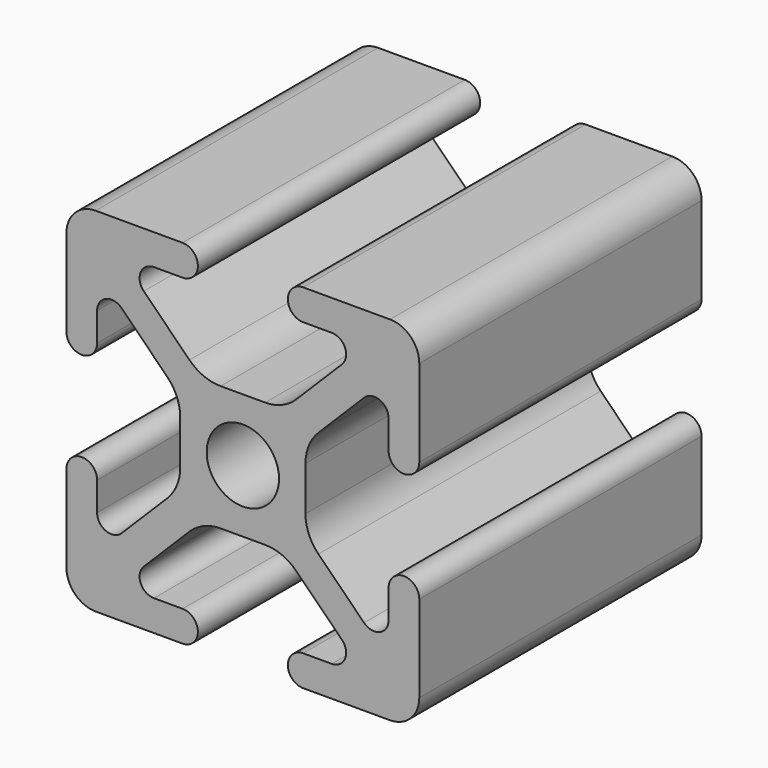
from build123d import *

# Parameters (mm, degrees)
F0_R     = 2.6035
F1_DEPTH = 25.4


with BuildPart() as f1:
    # F0 (on Front) → F1 (new body)
    with BuildSketch(Plane.XZ):
        with BuildLine():
            Line((-4.370089, 12.764578), (-10.618489, 12.764578))
            ThreePointArc((-10.618489, 12.764578), (-12.109211, 12.147101), (-12.726689, 10.656378))
            Line((-12.726689, 10.656378), (-12.726689, 4.407978))
            ThreePointArc((-12.726689, 4.407978), (-11.621789, 3.303078), (-10.516889, 4.407978))
            Line((-10.516889, 4.407978), (-10.516889, 6.464108))
            ThreePointArc((-10.516889, 6.464108), (-9.878719, 7.419196), (-8.752116, 7.195101))
            Line((-8.752116, 7.195101), (-5.465125, 3.90811))
            ThreePointArc((-5.465125, 3.90811), (-4.776871, 2.878066), (-4.535189, 1.663046))
            Line((-4.535189, 1.663046), (-4.535189, -1.533889))
            ThreePointArc((-4.535189, -1.533889), (-4.776871, -2.748909), (-5.465125, -3.778953))
            Line((-5.465125, -3.778953), (-8.752116, -7.065945))
            ThreePointArc((-8.752116, -7.065945), (-9.878719, -7.29004), (-10.516889, -6.334952))
            Line((-10.516889, -6.334952), (-10.516889, -4.278822))
            ThreePointArc((-10.516889, -4.278822), (-11.621789, -3.173922), (-12.726689, -4.278822))
            Line((-12.726689, -4.278822), (-12.726689, -10.527222))
            ThreePointArc((-12.726689, -10.527222), (-12.109211, -12.017944), (-10.618489, -12.635422))
            Line((-10.618489, -12.635422), (-4.370089, -12.635422))
            ThreePointArc((-4.370089, -12.635422), (-3.265189, -11.530522), (-4.370089, -10.425622))
            Line((-4.370089, -10.425622), (-6.426219, -10.425622))
            ThreePointArc((-6.426219, -10.425622), (-7.381307, -9.787452), (-7.157212, -8.660849))
            Line((-7.157212, -8.660849), (-3.87022, -5.373858))
            ThreePointArc((-3.87022, -5.373858), (-2.840176, -4.685604), (-1.625156, -4.443922))
            Line((-1.625156, -4.443922), (1.571779, -4.443922))
            ThreePointArc((1.571779, -4.443922), (2.786799, -4.685604), (3.816843, -5.373858))
            Line((3.816843, -5.373858), (7.103834, -8.660849))
            ThreePointArc((7.103834, -8.660849), (7.327929, -9.787452), (6.372841, -10.425622))
            Line((6.372841, -10.425622), (4.316711, -10.425622))
            ThreePointArc((4.316711, -10.425622), (3.211811, -11.530522), (4.316711, -12.635422))
            Line((4.316711, -12.635422), (10.565111, -12.635422))
            ThreePointArc((10.565111, -12.635422), (12.055834, -12.017944), (12.673311, -10.527222))
            Line((12.673311, -10.527222), (12.673311, -4.278822))
            ThreePointArc((12.673311, -4.278822), (11.568411, -3.173922), (10.463511, -4.278822))
            Line((10.463511, -4.278822), (10.463511, -6.334952))
            ThreePointArc((10.463511, -6.334952), (9.825342, -7.29004), (8.698738, -7.065945))
            Line((8.698738, -7.065945), (5.411747, -3.778953))
            ThreePointArc((5.411747, -3.778953), (4.723494, -2.748909), (4.481811, -1.533889))
            Line((4.481811, -1.533889), (4.481811, 1.663046))
            ThreePointArc((4.481811, 1.663046), (4.723494, 2.878066), (5.411747, 3.90811))
            Line((5.411747, 3.90811), (8.698738, 7.195101))
            ThreePointArc((8.698738, 7.195101), (9.825342, 7.419196), (10.463511, 6.464108))
            Line((10.463511, 6.464108), (10.463511, 4.407978))
            ThreePointArc((10.463511, 4.407978), (11.568411, 3.303078), (12.673311, 4.407978))
            Line((12.673311, 4.407978), (12.673311, 10.656378))
            ThreePointArc((12.673311, 10.656378), (12.055834, 12.147101), (10.565111, 12.764578))
            Line((10.565111, 12.764578), (4.316711, 12.764578))
            ThreePointArc((4.316711, 12.764578), (3.211811, 11.659678), (4.316711, 10.554778))
            Line((4.316711, 10.554778), (6.372841, 10.554778))
            ThreePointArc((6.372841, 10.554778), (7.327929, 9.916609), (7.103834, 8.790005))
            Line((7.103834, 8.790005), (3.816843, 5.503014))
            ThreePointArc((3.816843, 5.503014), (2.786799, 4.814761), (1.571779, 4.573078))
            Line((1.571779, 4.573078), (-1.625156, 4.573078))
            ThreePointArc((-1.625156, 4.573078), (-2.840176, 4.814761), (-3.87022, 5.503014))
            Line((-3.87022, 5.503014), (-7.157212, 8.790005))
            ThreePointArc((-7.157212, 8.790005), (-7.381307, 9.916609), (-6.426219, 10.554778))
            Line((-6.426219, 10.554778), (-4.370089, 10.554778))
            ThreePointArc((-4.370089, 10.554778), (-3.265189, 11.659678), (-4.370089, 12.764578))
        make_face()
        with Locations((-0.026689, 0.064578)):
            Circle(F0_R, mode=Mode.SUBTRACT)
    extrude(amount=F1_DEPTH)


solid = f1.part
